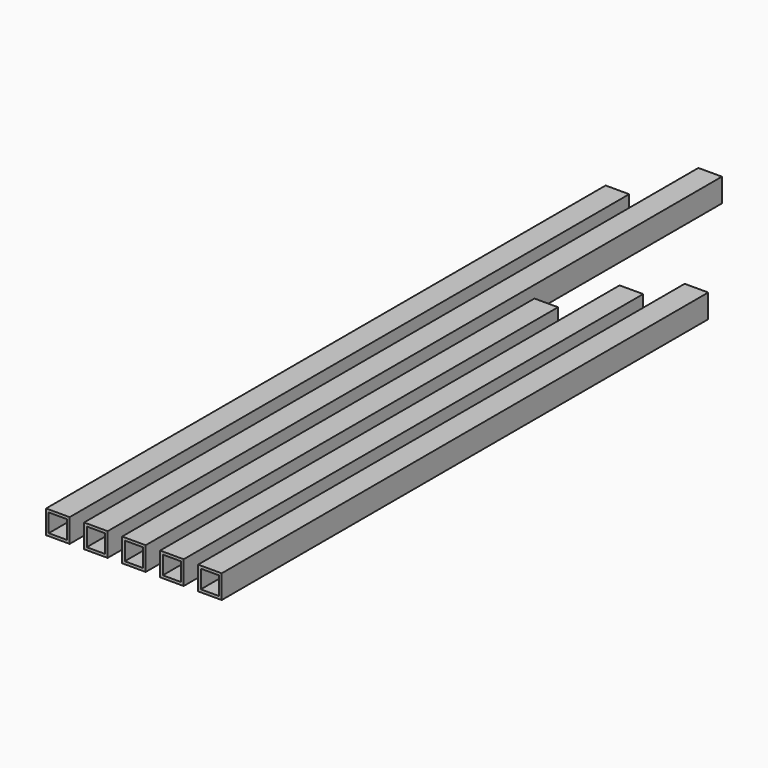
from build123d import *

# Parameters (mm, degrees)
F0_W     = 15.5
F0_H     = 15.5
F0_W_2   = 12
F0_H_2   = 12
F1_DEPTH = 460
F2_DEPTH = 505
F3_DEPTH = 339
F4_DEPTH = 377.75
F5_DEPTH = 400


with BuildPart() as f1:
    # F0 (on Front) → F1 (new body)
    with BuildSketch(Plane.XZ):
        with Locations((-10, 0)):
            Rectangle(F0_W, F0_H)
        with Locations((-10, 0)):
            Rectangle(F0_W_2, F0_H_2, mode=Mode.SUBTRACT)
    extrude(amount=-F1_DEPTH)


with BuildPart() as f2:
    # F0 (on Front) → F2 (new body)
    with BuildSketch(Plane.XZ):
        with Locations((15, 0)):
            Rectangle(F0_W, F0_H)
        with Locations((15, 0)):
            Rectangle(F0_W_2, F0_H_2, mode=Mode.SUBTRACT)
    extrude(amount=-F2_DEPTH)


with BuildPart() as f3:
    # F0 (on Front) → F3 (new body)
    with BuildSketch(Plane.XZ):
        with Locations((40, 0)):
            Rectangle(F0_W, F0_H)
        with Locations((40, 0)):
            Rectangle(F0_W_2, F0_H_2, mode=Mode.SUBTRACT)
    extrude(amount=-F3_DEPTH)


with BuildPart() as f4:
    # F0 (on Front) → F4 (new body)
    with BuildSketch(Plane.XZ):
        with Locations((65, 0)):
            Rectangle(F0_W, F0_H)
        with Locations((65, 0)):
            Rectangle(F0_W_2, F0_H_2, mode=Mode.SUBTRACT)
    extrude(amount=-F4_DEPTH)


with BuildPart() as f5:
    # F0 (on Front) → F5 (new body)
    with BuildSketch(Plane.XZ):
        with Locations((90, 0)):
            Rectangle(F0_W, F0_H)
        with Locations((90, 0)):
            Rectangle(F0_W_2, F0_H_2, mode=Mode.SUBTRACT)
    extrude(amount=-F5_DEPTH)


solid = Compound([f1.part, f2.part, f3.part, f4.part, f5.part])
